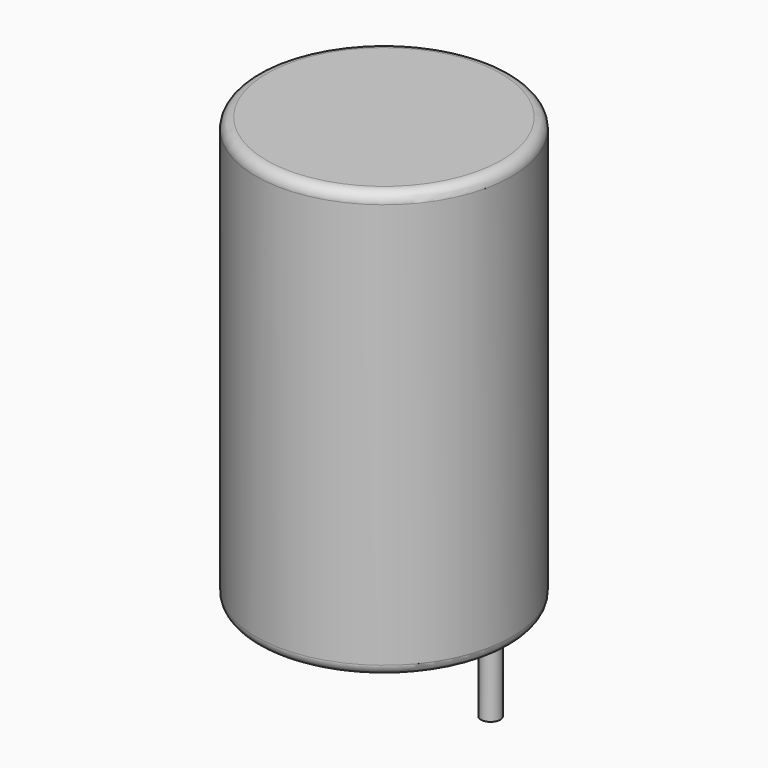
from build123d import *

# Parameters (mm, degrees)
SKETCH001_R       = 0.45
PAD001_DEPTH      = 10
PAD001_DEPTH_BACK = 3.5
SKETCH_R          = 6
PAD_DEPTH         = 20
FILLET_R          = 0.5


with BuildPart() as pad001:
    # Sketch001 → Pad001 (new body, two sides)
    with BuildSketch(Plane.XY.offset(0.5)) as pad001_sk:
        Circle(SKETCH001_R)
        with Locations((10, 0)):
            Circle(SKETCH001_R)
    extrude(amount=PAD001_DEPTH)
    extrude(pad001_sk.sketch, amount=-PAD001_DEPTH_BACK)


with BuildPart() as fillet_body:
    # Sketch → Pad (new body)
    with BuildSketch(Plane.XY.offset(0.1)):
        with Locations((5, 0)):
            Circle(SKETCH_R)
    extrude(amount=PAD_DEPTH)

    # Fillet
    fillet_edges = [fillet_body.edges().sort_by_distance(p)[0] for p in [
        (-1, 0, 0.1),
        (-1, 0, 20.1),
    ]]
    fillet(fillet_edges, radius=FILLET_R)


solid = Compound([pad001.part, fillet_body.part])
